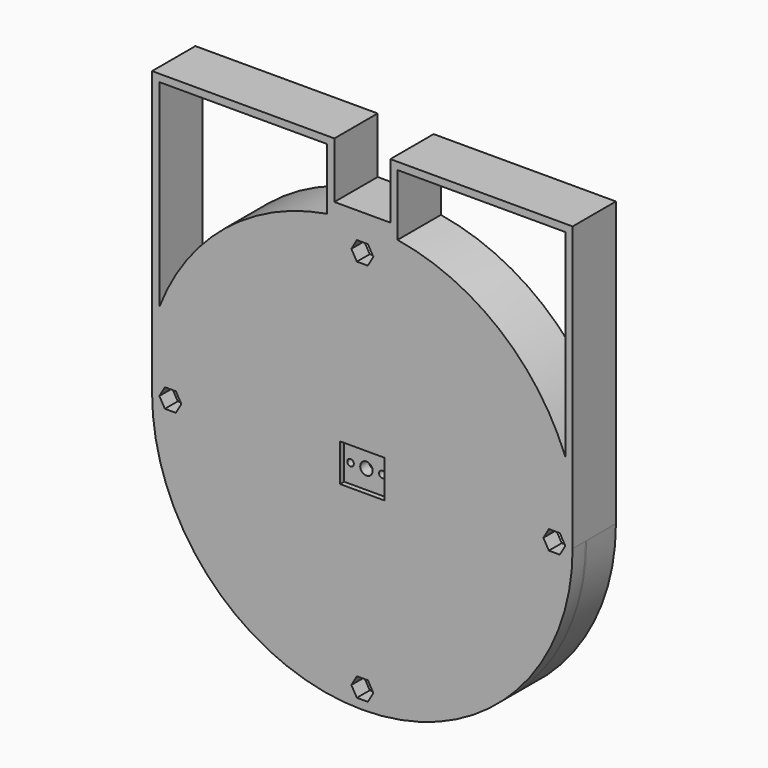
from build123d import *

# Parameters (mm, degrees)
SKETCH137_R     = 57.5
SKETCH137_R_2   = 50.2
PAD051_DEPTH    = 10
SKETCH138_R     = 57.5
SKETCH138_R_2   = 52.7
PAD052_DEPTH    = 10
SKETCH139_R     = 55.2
SKETCH139_R_2   = 45.630592
POCKET074_DEPTH = 10.001
SKETCH140_R     = 55.2
SKETCH140_R_2   = 52.7
PAD053_DEPTH    = 2.6
SKETCH141_R     = 57.5
SKETCH141_R_2   = 52.7
PAD054_DEPTH    = 0.4
SKETCH142_R     = 1.75
POCKET075_DEPTH = 5
SKETCH143_R     = 57.5
PAD055_DEPTH    = 4.4
SKETCH144_W     = 12.18
SKETCH144_H     = 10.29
POCKET076_DEPTH = 1.4
SKETCH145_R     = 1.7
POCKET077_DEPTH = 14.801
SKETCH146_R     = 0.9
POCKET078_DEPTH = 14.801
SKETCH147_R     = 1.55
POCKET079_DEPTH = 1
PAD056_DEPTH    = 14.8


with BuildPart() as part:
    # Sketch137 (on DatumPlane) → Pad051 (new body)
    with BuildSketch(Plane.XZ.offset(10)):
        Circle(SKETCH137_R)
        Circle(SKETCH137_R_2, mode=Mode.SUBTRACT)
    extrude(amount=-PAD051_DEPTH)

    # Sketch138 (on DatumPlane) → Pad052 (new body)
    with BuildSketch(Plane.XZ.offset(10)):
        Circle(SKETCH138_R)
        Circle(SKETCH138_R_2, mode=Mode.SUBTRACT)
    extrude(amount=-PAD052_DEPTH)

    # Sketch139 (on Face4 of PolarPattern016) → Pocket074 (cut, through all)
    with BuildSketch(Plane.XZ.offset(10)):
        Circle(SKETCH139_R)
        Circle(SKETCH139_R_2, mode=Mode.SUBTRACT)
    extrude(amount=-POCKET074_DEPTH, mode=Mode.SUBTRACT)

    # Sketch140 (on Face2 of Pocket074) → Pad053 (new body)
    with BuildSketch(Plane.XZ.offset(10)):
        Circle(SKETCH140_R)
        Circle(SKETCH140_R_2, mode=Mode.SUBTRACT)
    extrude(amount=-PAD053_DEPTH)

    # Sketch141 (on Face6 of Pad053) → Pad054 (new body)
    with BuildSketch(Plane.XZ.offset(10)):
        Circle(SKETCH141_R)
        Circle(SKETCH141_R_2, mode=Mode.SUBTRACT)
    extrude(amount=PAD054_DEPTH)

    # Sketch142 (on Face5 of Pad054) → Pocket075 (cut)
    with BuildSketch(Plane.XZ.offset(10.4)):
        with Locations((0, -52.5)):
            Circle(SKETCH142_R)
        with Locations((-52.5, 0)):
            Circle(SKETCH142_R)
        with Locations((0, 52.5)):
            Circle(SKETCH142_R)
        with Locations((52.5, 0)):
            Circle(SKETCH142_R)
    extrude(amount=-POCKET075_DEPTH, mode=Mode.SUBTRACT)

    # Sketch143 (on Face4 of Pocket075) → Pad055 (new body)
    with BuildSketch(Plane.XZ.offset(10.4)):
        Circle(SKETCH143_R)
        Polygon((3, -52.5), (1.5, -49.901924), (-1.5, -49.901924), (-3, -52.5), (-1.5, -55.098076), (1.5, -55.098076), align=None, mode=Mode.SUBTRACT)
        Polygon((3, 52.5), (1.5, 55.098076), (-1.5, 55.098076), (-3, 52.5), (-1.5, 49.901924), (1.5, 49.901924), align=None, mode=Mode.SUBTRACT)
        Polygon((-49.5, 0), (-51, 2.598076), (-54, 2.598076), (-55.5, 0), (-54, -2.598076), (-51, -2.598076), align=None, mode=Mode.SUBTRACT)
        Polygon((55.5, 0), (54, 2.598076), (51, 2.598076), (49.5, 0), (51, -2.598076), (54, -2.598076), align=None, mode=Mode.SUBTRACT)
    extrude(amount=PAD055_DEPTH)

    # Sketch144 (on Face13 of Pad055) → Pocket076 (cut)
    with BuildSketch(Plane.XZ.offset(14.8)):
        Rectangle(SKETCH144_W, SKETCH144_H)
    extrude(amount=-POCKET076_DEPTH, mode=Mode.SUBTRACT)

    # Sketch145 (on Face4 of Pocket076) → Pocket077 (cut, through all)
    with BuildSketch(Plane.XZ.offset(14.8)):
        Circle(SKETCH145_R)
    extrude(amount=-POCKET077_DEPTH, mode=Mode.SUBTRACT)

    # Sketch146 (on Face4 of Pocket077) → Pocket078 (cut, through all)
    with BuildSketch(Plane.XZ.offset(14.8)):
        with Locations((-4.35, 0)):
            Circle(SKETCH146_R)
        with Locations((4.35, 0)):
            Circle(SKETCH146_R)
    extrude(amount=-POCKET078_DEPTH, mode=Mode.SUBTRACT)

    # Sketch147 (on Face42 of Pocket078) → Pocket079 (cut)
    with BuildSketch(Plane(origin=(0, -10.4, 0), x_dir=(1, 0, 0), z_dir=(0, 1, 0))):
        with Locations((-4.35, 0)):
            Circle(SKETCH147_R)
        with Locations((4.35, 0)):
            Circle(SKETCH147_R)
    extrude(amount=-POCKET079_DEPTH, mode=Mode.SUBTRACT)

    # Sketch148 (on Face1 of Pocket079) → Pad056 (new body)
    with BuildSketch(Plane(origin=(0, 0, 0), x_dir=(1, 0, 0), z_dir=(0, 1, 0))):
        with BuildLine():
            Line((-7.65, -62.26), (7.65, -62.26))
            Line((7.65, -62.26), (7.65, -77.56))
            Line((7.65, -77.56), (57.5, -77.56))
            Line((57.5, 0), (57.5, -77.56))
            ThreePointArc((-57.5, 0), (0, -57.5), (57.5, 0))
            Line((-57.5, 0), (-57.5, -77.56))
            Line((-57.5, -77.56), (-7.65, -77.56))
            Line((-7.65, -62.26), (-7.65, -77.56))
        make_face()
        with BuildLine():
            Line((9.640661, -58.760865), (9.65, -75.56))
            Line((9.65, -75.56), (55.5, -75.56))
            Line((55.500076, -21.447651), (55.5, -75.56))
            ThreePointArc((9.640661, -58.760865), (37.533805, -46.204517), (55.500076, -21.447651))
        make_face(mode=Mode.SUBTRACT)
        with BuildLine():
            Line((-9.65, -75.56), (-55.5, -75.56))
            Line((-55.500076, -21.447651), (-55.5, -75.56))
            ThreePointArc((-55.500076, -21.447651), (-37.533805, -46.204517), (-9.640661, -58.760865))
            Line((-9.640661, -58.760865), (-9.65, -75.56))
        make_face(mode=Mode.SUBTRACT)
    extrude(amount=-PAD056_DEPTH)


solid = part.part
